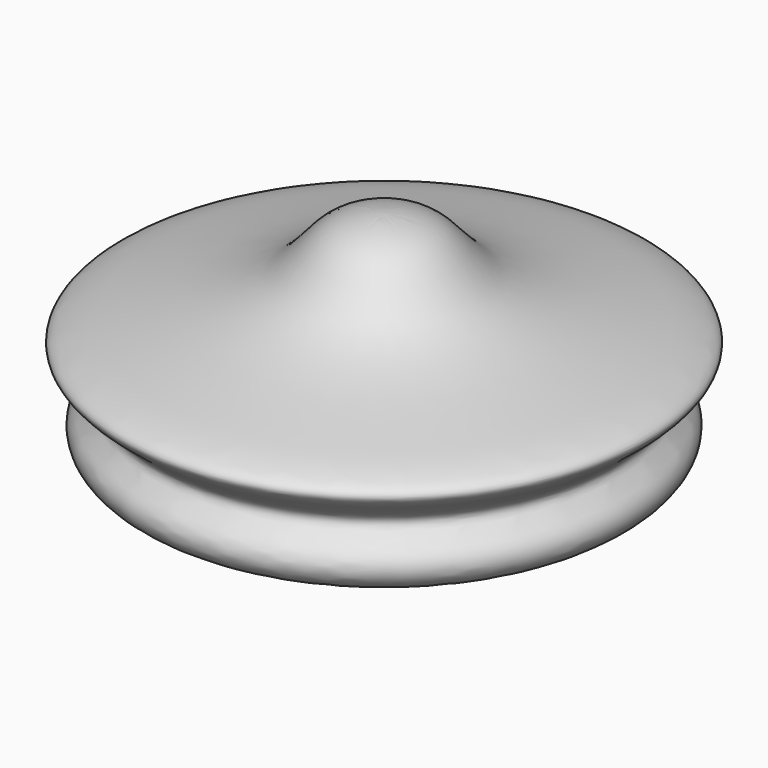
from build123d import *


with BuildPart() as f1:
    # F0 (on Front) → F1 (revolve)
    with BuildSketch(Plane.XZ):
        with BuildLine():
            Line((-6.35, 0), (0, 0))
            Line((0, 0), (0, 19.05))
            add(Edge.make_bspline(
                [(-16.002, 3.175), (-18.1733791501, 3.705218035), (-19.0553574022, 6.0319238978), (-15.4181468116, 7.8701663541), (-21.6149634641, 10.8873383776), (-15.3500920778, 12.323280796), (-10.8293042936, 13.1746898945), (-6.0595343756, 14.9543440368), (-4.0809186209, 18.4595255873), (-1.4394095714, 19.0400085114), (0, 19.05)],
                knots=[0, 0, 0, 0, 0.1190722585, 0.2159505034, 0.3389758245, 0.464043363, 0.6129479525, 0.751799344, 0.8743013091, 1, 1, 1, 1], degree=3))
            Line((-16.002, 3.175), (-6.35, 3.175))
            Line((-6.35, 3.175), (-6.35, 0))
        make_face()
    revolve(axis=Axis((0, 0, 9.525), (0, 0, 1)))


solid = f1.part
